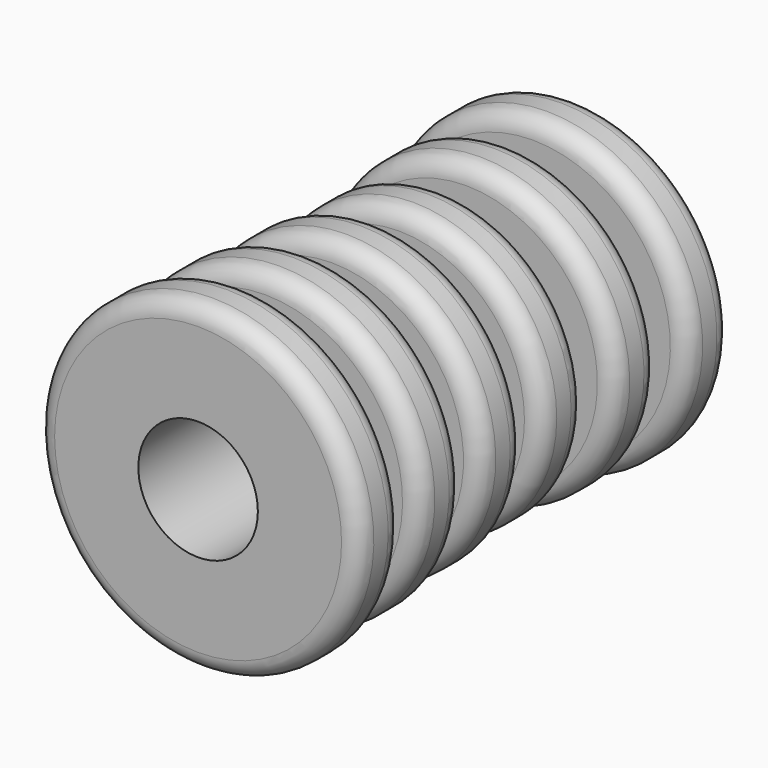
from build123d import *

# Parameters (mm, degrees)
F2_R     = 12.7
F3_DEPTH = 100.331


with BuildPart() as f1:
    # F0 (on Right) → F1 (revolve)
    with BuildSketch(Plane.YZ):
        with BuildLine():
            Line((-100.33, 30.48), (-100.33, 19.05))
            Line((-100.33, 19.05), (-88.9, 19.05))
            Line((-88.9, 19.05), (-88.9, 30.48))
            ThreePointArc((-88.9, 30.48), (-90.015923, 33.174077), (-92.71, 34.29))
            Line((-92.71, 34.29), (-96.52, 34.29))
            ThreePointArc((-96.52, 34.29), (-99.214077, 33.174077), (-100.33, 30.48))
        make_face()
        with BuildLine():
            Line((-82.55, 29.21), (-82.55, 19.05))
            Line((-82.55, 19.05), (-71.12, 19.05))
            Line((-71.12, 19.05), (-71.12, 29.21))
            ThreePointArc((-71.12, 29.21), (-72.235923, 31.904077), (-74.93, 33.02))
            Line((-74.93, 33.02), (-78.74, 33.02))
            ThreePointArc((-78.74, 33.02), (-81.434077, 31.904077), (-82.55, 29.21))
        make_face()
        with BuildLine():
            Line((-64.77, 27.94), (-64.77, 19.05))
            Line((-64.77, 19.05), (-53.34, 19.05))
            Line((-53.34, 19.05), (-53.34, 27.94))
            ThreePointArc((-53.34, 27.94), (-54.455923, 30.634077), (-57.15, 31.75))
            Line((-57.15, 31.75), (-60.96, 31.75))
            ThreePointArc((-60.96, 31.75), (-63.654077, 30.634077), (-64.77, 27.94))
        make_face()
        with BuildLine():
            Line((-46.99, 26.67), (-46.99, 19.05))
            Line((-46.99, 19.05), (-35.56, 19.05))
            Line((-35.56, 19.05), (-35.56, 26.67))
            ThreePointArc((-35.56, 26.67), (-36.675923, 29.364077), (-39.37, 30.48))
            Line((-39.37, 30.48), (-43.18, 30.48))
            ThreePointArc((-43.18, 30.48), (-45.874077, 29.364077), (-46.99, 26.67))
        make_face()
        with BuildLine():
            Line((-29.21, 19.05), (-17.78, 19.05))
            Line((-17.78, 19.05), (-17.78, 27.94))
            ThreePointArc((-17.78, 27.94), (-18.895923, 30.634077), (-21.59, 31.75))
            Line((-21.59, 31.75), (-25.4, 31.75))
            ThreePointArc((-25.4, 31.75), (-28.094077, 30.634077), (-29.21, 27.94))
            Line((-29.21, 27.94), (-29.21, 19.05))
        make_face()
        with BuildLine():
            Line((-11.43, 19.05), (0, 19.05))
            Line((0, 19.05), (0, 29.21))
            ThreePointArc((0, 29.21), (-1.115923, 31.904077), (-3.81, 33.02))
            Line((-3.81, 33.02), (-7.62, 33.02))
            ThreePointArc((-7.62, 33.02), (-10.314077, 31.904077), (-11.43, 29.21))
            Line((-11.43, 29.21), (-11.43, 19.05))
        make_face()
        Polygon((-88.9, 19.05), (-100.33, 19.05), (-100.33, 0), (0, 0), (0, 19.05), (-11.43, 19.05), (-17.78, 19.05), (-29.21, 19.05), (-35.56, 19.05), (-46.99, 19.05), (-53.34, 19.05), (-64.77, 19.05), (-71.12, 19.05), (-82.55, 19.05), align=None)
    revolve(axis=Axis((0, -50.165, 0), (0, 1, 0)))

    # F2 (on face) → F3 (cut, through all)
    with BuildSketch(Plane.XZ.offset(100.33)):
        Circle(F2_R)
    extrude(amount=-F3_DEPTH, mode=Mode.SUBTRACT)


solid = f1.part
